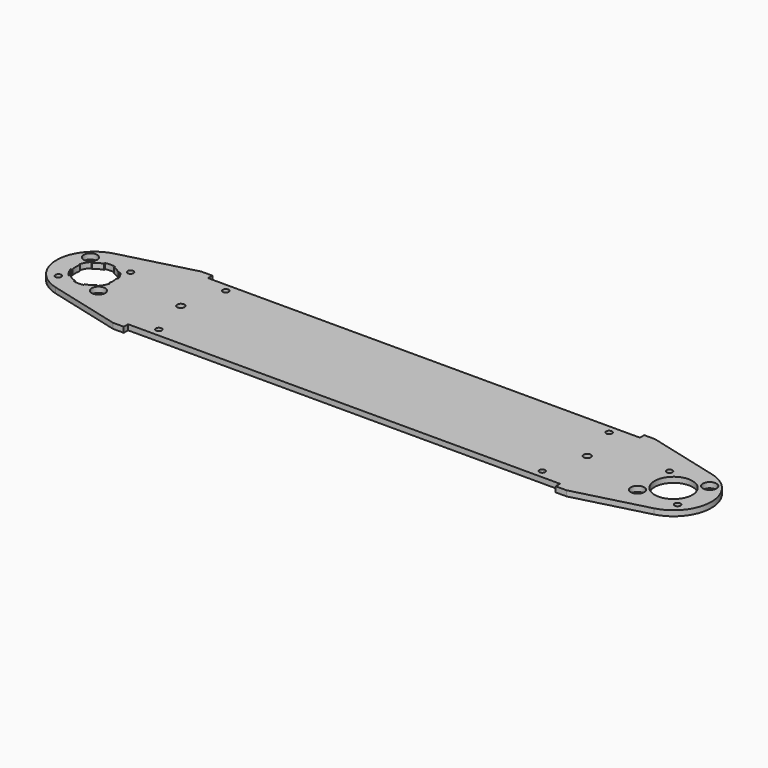
from build123d import *

# Parameters (mm, degrees)
F0_R     = 1.7272
F0_R_2   = 3.96875
F0_R_3   = 11.1125
F0_R_4   = 2.15265
F1_DEPTH = 3.175
F3_DEPTH = 3.175
F4_COUNT = 6
F4_ANGLE = 300


with BuildPart() as f1:
    # F0 (on Top) → F1 (new body)
    with BuildSketch(Plane.XY):
        with BuildLine():
            Line((-303.6125627, 32.54375), (-346.1094200534, 21.5120031198))
            ThreePointArc((-346.1094200534, 21.5120031198), (-362.7501254, 0), (-346.1094200534, -21.5120031198))
            Line((-346.1094200534, -21.5120031198), (-303.6125627, -32.54375))
            Line((-303.6125627, -32.54375), (-297.2625627, -32.54375))
            Line((-297.2625627, -32.54375), (-297.2625627, -29.36875))
            Line((-297.2625627, -29.36875), (-43.2625627, -29.36875))
            Line((-43.2625627, -29.36875), (-43.2625627, -32.54375))
            Line((-43.2625627, -32.54375), (-36.9125627, -32.54375))
            Line((-36.9125627, -32.54375), (5.5842946534, -21.5120031198))
            ThreePointArc((5.5842946534, -21.5120031198), (22.225, 0), (5.5842946534, 21.5120031198))
            Line((5.5842946534, 21.5120031198), (-36.9125627, 32.54375))
            Line((-36.9125627, 32.54375), (-43.2625627, 32.54375))
            Line((-43.2625627, 32.54375), (-43.2625627, 29.36875))
            Line((-43.2625627, 29.36875), (-297.2625627, 29.36875))
            Line((-297.2625627, 29.36875), (-297.2625627, 32.54375))
            Line((-297.2625627, 32.54375), (-303.6125627, 32.54375))
        make_face()
        with Locations((-282.9750627, -24.60625)):
            Circle(F0_R, mode=Mode.SUBTRACT)
        with Locations((-352.3117115589, -11.7865861589)):
            Circle(F0_R, mode=Mode.SUBTRACT)
        with Locations((-328.7385392411, -11.7865861589)):
            Circle(F0_R_2, mode=Mode.SUBTRACT)
        with Locations((-57.5500627, -24.60625)):
            Circle(F0_R, mode=Mode.SUBTRACT)
        with Locations((-11.7865861589, -11.7865861589)):
            Circle(F0_R_2, mode=Mode.SUBTRACT)
        with Locations((11.7865861589, -11.7865861589)):
            Circle(F0_R, mode=Mode.SUBTRACT)
        with Locations((-340.5251254, 0)):
            Circle(F0_R_3, mode=Mode.SUBTRACT)
        with Locations((-289.7251254, 0)):
            Circle(F0_R_4, mode=Mode.SUBTRACT)
        with Locations((-352.3117115589, 11.7865861589)):
            Circle(F0_R_2, mode=Mode.SUBTRACT)
        with Locations((-328.7385392411, 11.7865861589)):
            Circle(F0_R, mode=Mode.SUBTRACT)
        with Locations((-282.9750627, 24.60625)):
            Circle(F0_R, mode=Mode.SUBTRACT)
        with Locations((-50.8, 0)):
            Circle(F0_R_4, mode=Mode.SUBTRACT)
        Circle(F0_R_3, mode=Mode.SUBTRACT)
        with Locations((-11.7865861589, 11.7865861589)):
            Circle(F0_R, mode=Mode.SUBTRACT)
        with Locations((11.7865861589, 11.7865861589)):
            Circle(F0_R_2, mode=Mode.SUBTRACT)
        with Locations((-57.5500627, 24.60625)):
            Circle(F0_R, mode=Mode.SUBTRACT)
    extrude(amount=F1_DEPTH)

    # F2 (on face) → F3 (cut, through all)
    with BuildSketch(Plane(origin=(0, 0, 0), x_dir=(1, 0, 0), z_dir=(0, 0, -1))):
        with BuildLine():
            ThreePointArc((-348.3828495059, -7.8577241059), (-350.1488326996, -5.55625), (-351.2589761446, -2.8761266387))
            Line((-351.2589761446, -2.8761266387), (-352.0256797693, -3.0815642558))
            ThreePointArc((-352.0256797693, -3.0815642558), (-350.8362403638, -5.953125), (-348.9441155135, -8.4189901135))
            Line((-348.9441155135, -8.4189901135), (-348.3828495059, -7.8577241059))
        make_face()
    f3 = extrude(amount=-F3_DEPTH, mode=Mode.SUBTRACT)

    # F4: F3 ×6 about axis
    f4_axis = Axis((-340.5251254, 0, 0), (0, 0, -1))
    for i in range(1, F4_COUNT):
        add(f3.rotate(f4_axis, i * F4_ANGLE / (F4_COUNT - 1)), mode=Mode.SUBTRACT)


solid = f1.part
